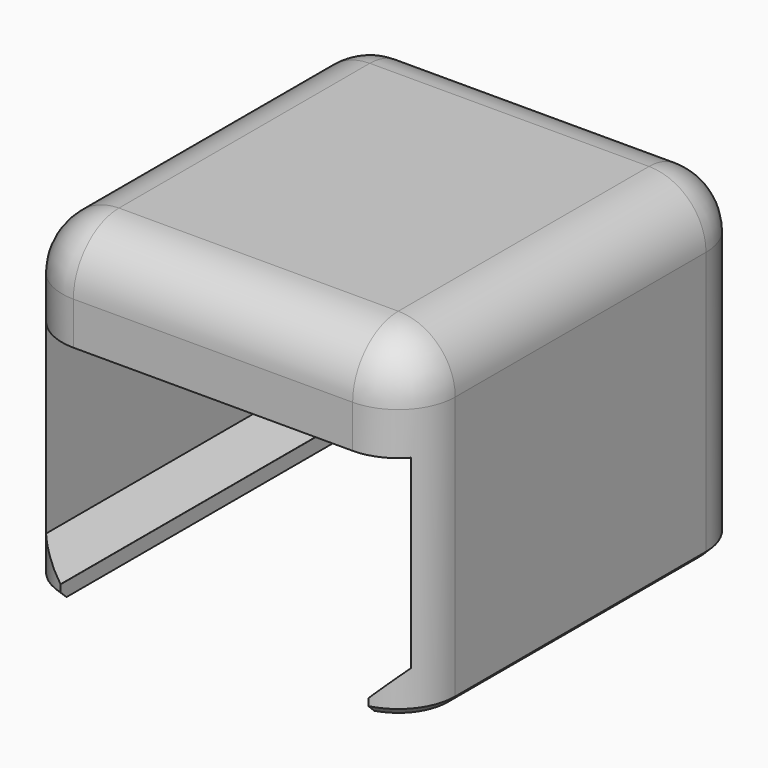
from build123d import *

# Parameters (mm, degrees)
PAD_DEPTH       = 15
CHAMFER_SIZE    = 1.99
CHAMFER001_SIZE = 6
SKETCH001_W     = 27.6
SKETCH001_H     = 7
PAD001_DEPTH    = 4
SKETCH002_W     = 31.6
SKETCH002_H     = 34
POCKET_DEPTH    = 23.001
FILLET_R        = 4
CHAMFER002_SIZE = 0.5


with BuildPart() as part:
    # Sketch → Pad (new body, symmetric)
    with BuildSketch(Plane.XZ):
        Polygon((-10.8, 0), (-10.8, 1), (-12.8, 1), (-12.8, 22), (12.8, 22), (12.8, 1), (10.8, 1), (10.8, 0), (13.8, 0), (13.8, 23), (-13.8, 23), (-13.8, 0), align=None)
    extrude(amount=PAD_DEPTH, both=True)

    # Chamfer
    chamfer_edges = [part.edges().sort_by_distance(p)[0] for p in [
        (-12.8, 0, 1),
        (12.8, 0, 1),
    ]]
    chamfer(chamfer_edges, length=CHAMFER_SIZE)

    # Chamfer001
    chamfer001_edges = [part.edges().sort_by_distance(p)[0] for p in [
        (12.8, 0, 22),
        (-12.8, 0, 22),
    ]]
    chamfer(chamfer001_edges, length=CHAMFER001_SIZE)

    # Sketch001 (on Face1 of Chamfer001) → Pad001 (join)
    with BuildSketch(Plane(origin=(0, 15, 0), x_dir=(1, 0, 0), z_dir=(0, 1, 0))):
        with Locations((0, -19.5)):
            Rectangle(SKETCH001_W, SKETCH001_H)
    pad001 = extrude(amount=-PAD001_DEPTH)

    # Mirrored: Pad001 across XZ
    add(pad001.mirror(Plane.XZ))

    # Sketch002 (on Face21 of Mirrored) → Pocket (cut, through all)
    with BuildSketch(Plane(origin=(0, 0, 23), x_dir=(-1, 0, 0), z_dir=(0, 0, 1))):
        Rectangle(SKETCH002_W, SKETCH002_H)
        with BuildLine():
            Line((-13.8, 11), (-13.8, -11))
            ThreePointArc((-13.8, -11), (-12.628427, -13.828427), (-9.8, -15))
            Line((-9.8, -15), (9.8, -15))
            ThreePointArc((9.8, -15), (12.628427, -13.828427), (13.8, -11))
            Line((13.8, -11), (13.8, 11))
            ThreePointArc((13.8, 11), (12.628427, 13.828427), (9.8, 15))
            Line((9.8, 15), (-9.8, 15))
            ThreePointArc((-9.8, 15), (-12.628427, 13.828427), (-13.8, 11))
        make_face(mode=Mode.SUBTRACT)
    extrude(amount=-POCKET_DEPTH, mode=Mode.SUBTRACT)

    # Fillet
    fillet_edges = [part.edges().sort_by_distance(p)[0] for p in [
        (0, 15, 23),
        (12.628427, 13.828427, 23),
        (13.8, 0, 23),
        (12.628427, -13.828427, 23),
        (0, -15, 23),
        (-12.628427, -13.828427, 23),
        (-13.8, 0, 23),
        (-12.628427, 13.828427, 23),
    ]]
    fillet(fillet_edges, radius=FILLET_R)

    # Chamfer002
    chamfer002_edges = [part.edges().sort_by_distance(p)[0] for p in [
        (13.8, 0, 0),
        (-13.8, 0, 0),
    ]]
    chamfer(chamfer002_edges, length=CHAMFER002_SIZE)


solid = part.part
